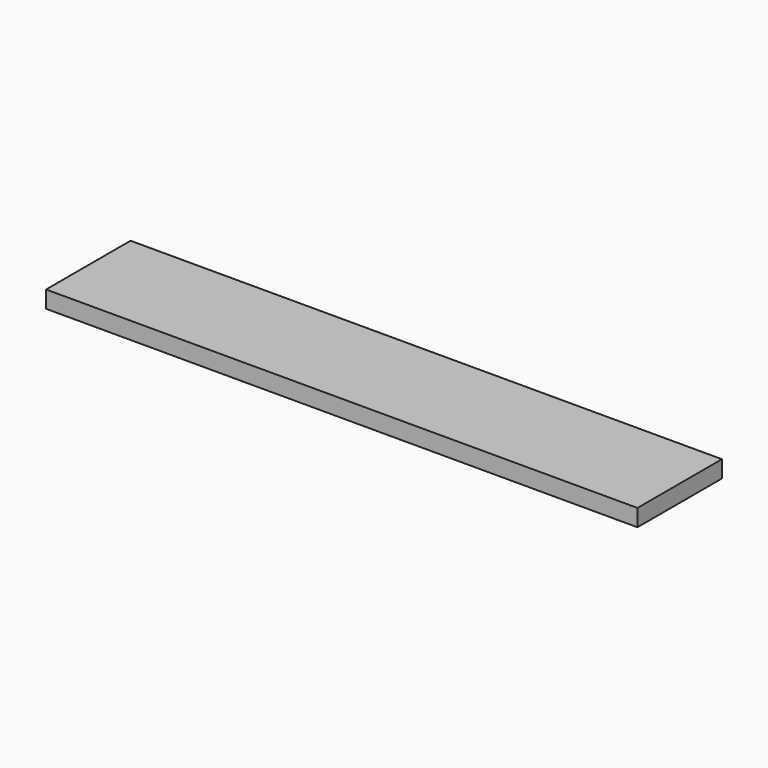
from build123d import *

# Parameters (mm, degrees)
SKETCH_W  = 521
SKETCH_H  = 93
PAD_DEPTH = 15


with BuildPart() as part:
    # Sketch → Pad (new body)
    with BuildSketch(Plane.XY):
        Rectangle(SKETCH_W, SKETCH_H)
    extrude(amount=PAD_DEPTH)


solid = part.part
